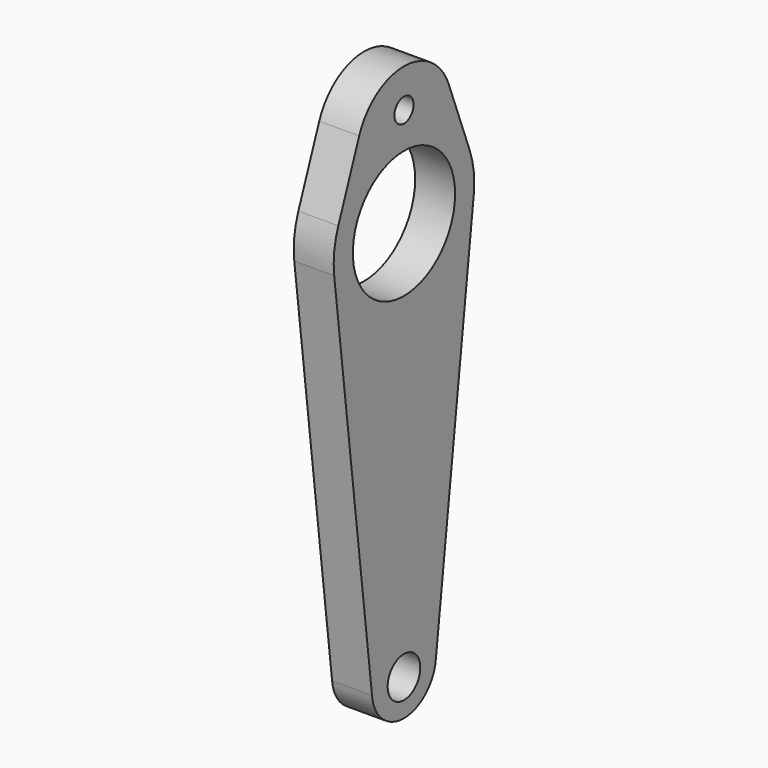
from build123d import *

# Parameters (mm, degrees)
F0_R     = 2.55
F0_R_2   = 8
F0_R_3   = 1.5
F1_DEPTH = 5


with BuildPart() as f1:
    # F0 (on Right) → F1 (new body)
    with BuildSketch(Plane.YZ):
        with BuildLine():
            Line((10.279041, 3.916799), (7.008437, 12.5))
            ThreePointArc((7.008437, 12.5), (0, 17.329455), (-7.008437, 12.5))
            Line((-7.008437, 12.5), (-10.279041, 3.916799))
            ThreePointArc((-10.279041, 3.916799), (-10.918884, 1.333405), (-10.919537, -1.328046))
            Line((-10.919537, -1.328046), (-5, -50))
            ThreePointArc((-5, -50), (0, -54.55), (5, -50))
            Line((5, -50), (10.919537, -1.328046))
            ThreePointArc((10.919537, -1.328046), (10.918884, 1.333405), (10.279041, 3.916799))
        make_face()
        with Locations((0, -50)):
            Circle(F0_R, mode=Mode.SUBTRACT)
        Circle(F0_R_2, mode=Mode.SUBTRACT)
        with Locations((0, 12.5)):
            Circle(F0_R_3, mode=Mode.SUBTRACT)
    extrude(amount=F1_DEPTH)


solid = f1.part
